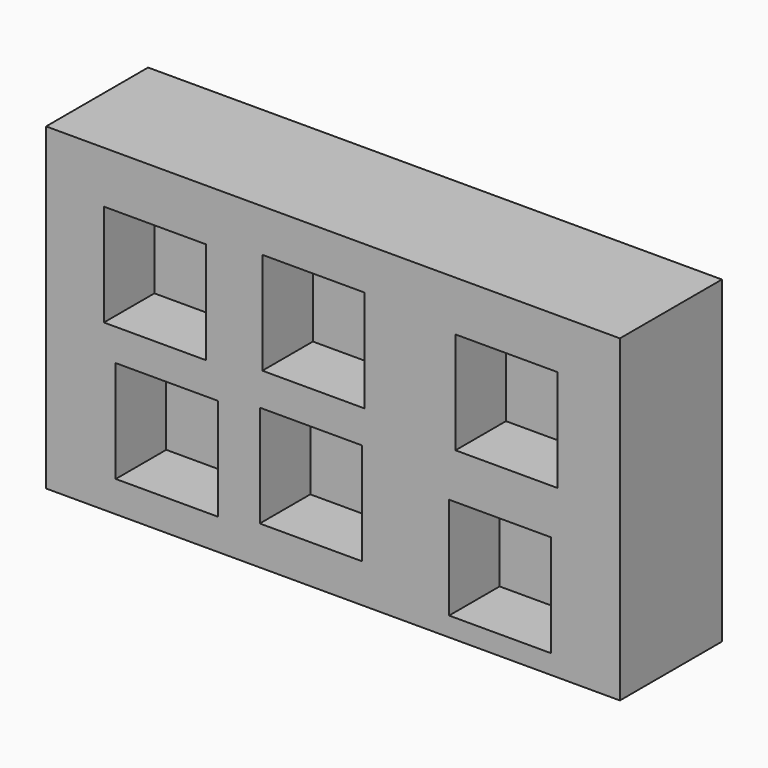
from build123d import *

# Parameters (mm, degrees)
F0_W     = 114.3
F0_H     = 63.5
F1_DEPTH = 25.4
F2_W     = 20.32
F2_H     = 20.32
F3_DEPTH = 12.573


with BuildPart() as f1:
    # F0 (on Front) → F1 (new body)
    with BuildSketch(Plane.XZ):
        Rectangle(F0_W, F0_H)
    extrude(amount=F1_DEPTH)

    # F2 (on face) → F3 (cut, symmetric)
    with BuildSketch(Plane.XZ.offset(25.4)):
        with Locations((-35.47241, 11.268726)):
            Rectangle(F2_W, F2_H)
        with Locations((-3.90384, 13.083012)):
            Rectangle(F2_W, F2_H)
        with Locations((34.559014, 11.631584)):
            Rectangle(F2_W, F2_H)
        with Locations((-33.113839, -15.401271)):
            Rectangle(F2_W, F2_H)
        with Locations((33.289013, -17.759843)):
            Rectangle(F2_W, F2_H)
        with Locations((-4.423103, -13.882415)):
            Rectangle(F2_W, F2_H)
    extrude(amount=F3_DEPTH, both=True, mode=Mode.SUBTRACT)


solid = f1.part
